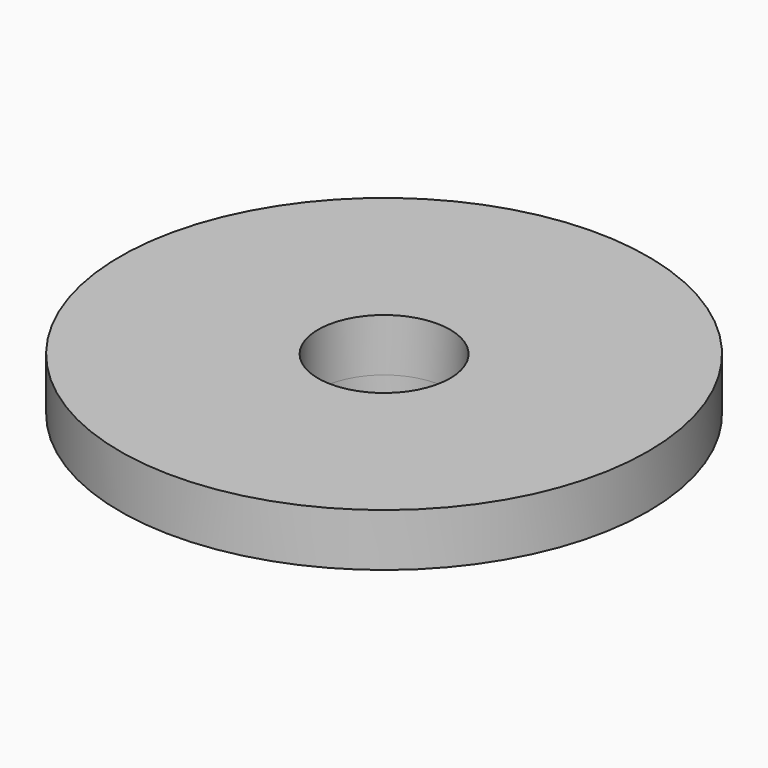
from build123d import *

# Parameters (mm, degrees)
F0_R     = 40
F0_R_2   = 15
F0_R_3   = 10
F1_DEPTH = 8
F2_DEPTH = 5
F3_DEPTH = 5.001


with BuildPart() as f1:
    # F0 (on Top) → F1 (new body)
    with BuildSketch(Plane.XY):
        Circle(F0_R)
        Circle(F0_R_2, mode=Mode.SUBTRACT)
        Circle(F0_R_2)
        Circle(F0_R_3, mode=Mode.SUBTRACT)
    extrude(amount=F1_DEPTH)

    # F0 (on Top) → F2 (join)
    with BuildSketch(Plane.XY):
        Circle(F0_R_2)
        Circle(F0_R_3, mode=Mode.SUBTRACT)
    extrude(amount=-F2_DEPTH)

    # F0 (on Top) → F3 (cut, through all)
    with BuildSketch(Plane.XY):
        Circle(F0_R_3)
    extrude(amount=-F3_DEPTH, mode=Mode.SUBTRACT)


solid = f1.part
